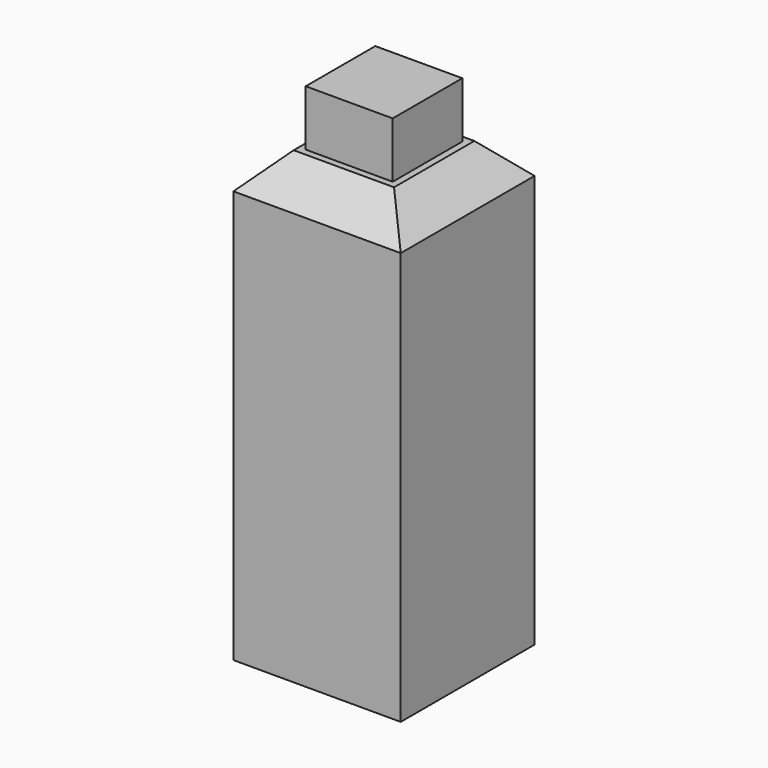
from build123d import *

# Parameters (mm, degrees)
SKETCH_W     = 15
SKETCH_H     = 15
PAD_DEPTH    = 40
SKETCH001_W  = 12.1
SKETCH001_H  = 12.1
POCKET_DEPTH = 30
SKETCH002_W  = 7.8
SKETCH002_H  = 7.8
PAD001_DEPTH = 5
CHAMFER_SIZE = 3


with BuildPart() as part:
    # Sketch → Pad (new body)
    with BuildSketch(Plane.XY):
        Rectangle(SKETCH_W, SKETCH_H)
    extrude(amount=PAD_DEPTH)

    # Sketch001 (on Face5 of Pad) → Pocket (cut)
    with BuildSketch(Plane(origin=(0, 0, 0), x_dir=(1, 0, 0), z_dir=(0, 0, -1))):
        Rectangle(SKETCH001_W, SKETCH001_H)
    extrude(amount=-POCKET_DEPTH, mode=Mode.SUBTRACT)

    # Sketch002 (on Face5 of Pocket) → Pad001 (join)
    with BuildSketch(Plane.XY.offset(40)):
        Rectangle(SKETCH002_W, SKETCH002_H)
    extrude(amount=PAD001_DEPTH)

    # Chamfer
    chamfer_edges = [part.edges().sort_by_distance(p)[0] for p in [
        (-7.5, 0, 40),
        (0, 7.5, 40),
        (7.5, 0, 40),
        (0, -7.5, 40),
    ]]
    chamfer(chamfer_edges, length=CHAMFER_SIZE)


solid = part.part
